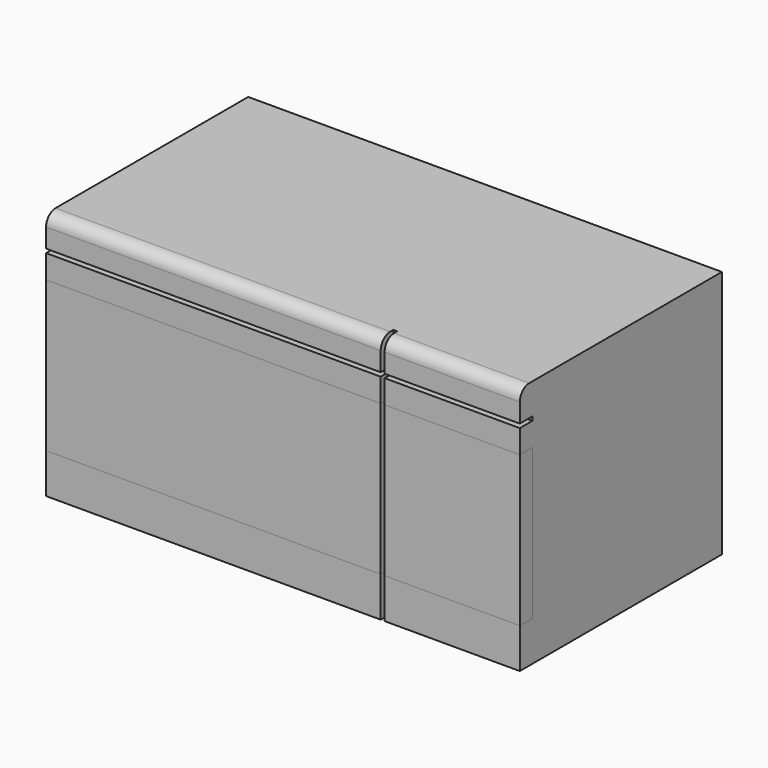
from build123d import *

# Parameters (mm, degrees)
F0_W     = 6.35
F0_H     = 49.6119248599
F0_W_2   = 217.3990383744
F0_W_3   = 538.2509616256
F0_H_2   = 6.3500106335
F0_H_3   = 37.8549993038
F0_H_4   = 241.8718934059
F0_H_5   = 64.3611717969
F1_DEPTH = 406.4
F2_R     = 19.05
F3_DEPTH = 25.4
F4_DEPTH = 25.4


with BuildPart() as f1:
    # F0 (on Front) → F1 (new body)
    with BuildSketch(Plane.XZ):
        with Locations((-296.2797081947, 401.8281990156)):
            Rectangle(F0_W, F0_H)
        with Locations((-184.4051890075, 401.8281990156)):
            Rectangle(F0_W_2, F0_H)
        with Locations((-568.5801890075, 401.8281990156)):
            Rectangle(F0_W_3, F0_H)
        with Locations((-184.4051890075, 373.8472312689)):
            Rectangle(F0_W_2, F0_H_2)
        with Locations((-568.5801890075, 373.8472312689)):
            Rectangle(F0_W_3, F0_H_2)
        with Locations((-184.4051890075, 351.7447263002)):
            Rectangle(F0_W_2, F0_H_3)
        with Locations((-568.5801890075, 351.7447263002)):
            Rectangle(F0_W_3, F0_H_3)
        with Locations((-184.4051890075, 211.8812799454)):
            Rectangle(F0_W_2, F0_H_4)
        with Locations((-568.5801890075, 211.8812799454)):
            Rectangle(F0_W_3, F0_H_4)
        with Locations((-296.2797081947, 58.764747344)):
            Rectangle(F0_W, F0_H_5)
        with Locations((-184.4051890075, 58.764747344)):
            Rectangle(F0_W_2, F0_H_5)
        with Locations((-568.5801890075, 58.764747344)):
            Rectangle(F0_W_3, F0_H_5)
        with Locations((-296.2797081947, 351.7447263002)):
            Rectangle(F0_W, F0_H_3)
        with Locations((-296.2797081947, 373.8472312689)):
            Rectangle(F0_W, F0_H_2)
        with Locations((-296.2797081947, 211.8812799454)):
            Rectangle(F0_W, F0_H_4)
    extrude(amount=-F1_DEPTH)

    # F2
    f2_edges = [f1.edges().sort_by_distance(p)[0] for p in [
        (-456.70567, 0, 426.634161),
    ]]
    fillet(f2_edges, radius=F2_R)

    # F0 (on Front) → F3 (cut)
    with BuildSketch(Plane.XZ):
        with Locations((-568.5801890075, 373.8472312689)):
            Rectangle(F0_W_3, F0_H_2)
        with Locations((-296.2797081947, 401.8281990156)):
            Rectangle(F0_W, F0_H)
        with Locations((-296.2797081947, 373.8472312689)):
            Rectangle(F0_W, F0_H_2)
        with Locations((-184.4051890075, 373.8472312689)):
            Rectangle(F0_W_2, F0_H_2)
        with Locations((-296.2797081947, 351.7447263002)):
            Rectangle(F0_W, F0_H_3)
        with Locations((-296.2797081947, 211.8812799454)):
            Rectangle(F0_W, F0_H_4)
        with Locations((-296.2797081947, 58.764747344)):
            Rectangle(F0_W, F0_H_5)
        with Locations((-568.5801890075, 211.8812799454)):
            Rectangle(F0_W_3, F0_H_4)
        with Locations((-184.4051890075, 211.8812799454)):
            Rectangle(F0_W_2, F0_H_4)
    extrude(amount=-F3_DEPTH, mode=Mode.SUBTRACT)


with BuildPart() as f4:
    # F0 (on Front) → F4 (new body)
    with BuildSketch(Plane.XZ):
        with Locations((-568.5801890075, 211.8812799454)):
            Rectangle(F0_W_3, F0_H_4)
    extrude(amount=-F4_DEPTH)


with BuildPart() as f4b:
    # F0 (on Front) → F4, piece 2 (new body)
    with BuildSketch(Plane.XZ):
        with Locations((-184.4051890075, 211.8812799454)):
            Rectangle(F0_W_2, F0_H_4)
    extrude(amount=-F4_DEPTH)


solid = Compound([f1.part, f4.part, f4b.part])
